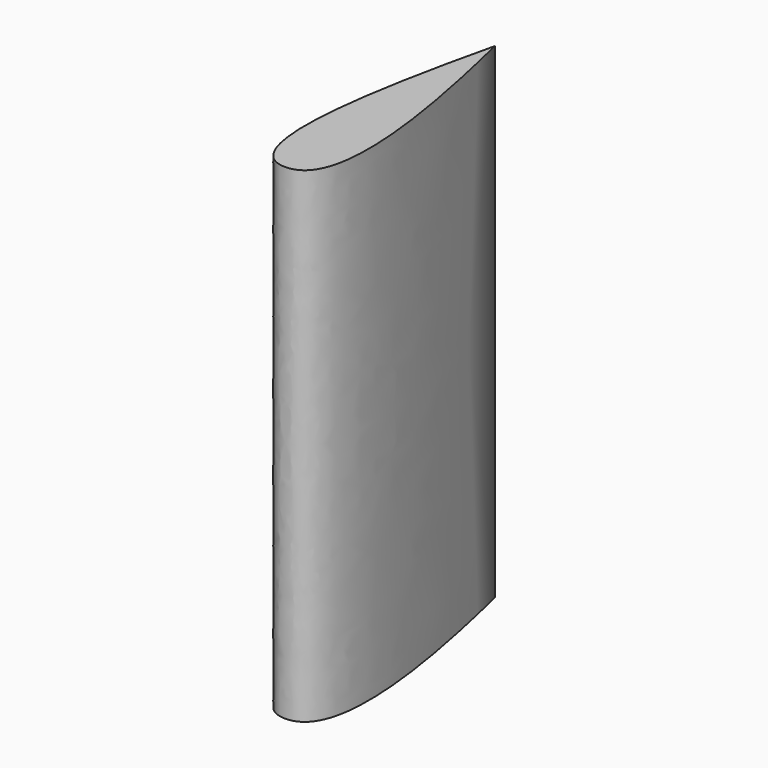
from build123d import *

# Parameters (mm, degrees)
F1_DEPTH = 100


with BuildPart() as f1:
    # F0 (on Top) → F1 (new body)
    with BuildSketch(Plane.XY):
        with BuildLine():
            add(Edge.make_bspline(
                [(0, 0), (-11.486222, 0), (-5.40902, 31.118514), (0, 53.927701)],
                knots=[0, 0, 0, 0, 53.927701, 53.927701, 53.927701, 53.927701], degree=3))
            add(Edge.make_bspline(
                [(0, 0), (11.486222, 0), (5.40902, 31.118514), (0, 53.927701)],
                knots=[0, 0, 0, 0, 53.927701, 53.927701, 53.927701, 53.927701], degree=3))
        make_face()
    extrude(amount=F1_DEPTH)


solid = f1.part
